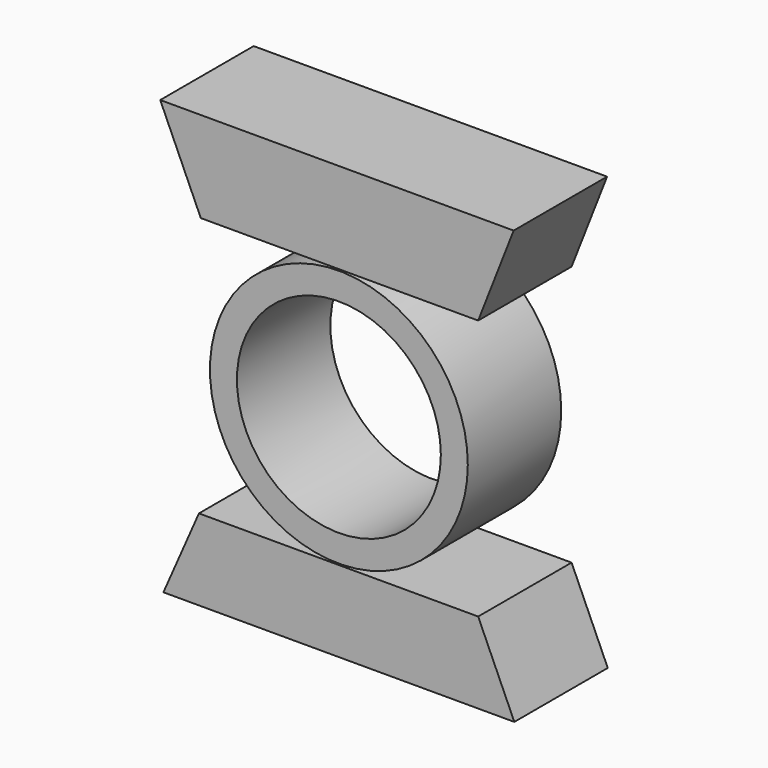
from build123d import *

# Parameters (mm, degrees)
F0_R     = 28.038361
F0_R_2   = 22.175095
F1_DEPTH = 25.4


with BuildPart() as f1:
    # F0 (on Front) → F1 (new body)
    with BuildSketch(Plane.XZ):
        Polygon((38.157757, -45.935411), (30.291643, -28.315317), (-30.434743, -28.315317), (-38.157757, -45.935411), align=None)
        Circle(F0_R)
        Circle(F0_R_2, mode=Mode.SUBTRACT)
        Polygon((-38.850002, 48.09), (-30.030001, 28.350001), (30.291643, 28.350001), (38.009997, 48.09), (34.230001, 48.09), (-30.030001, 48.09), (-35.070002, 48.09), align=None)
    extrude(amount=F1_DEPTH)


solid = f1.part
